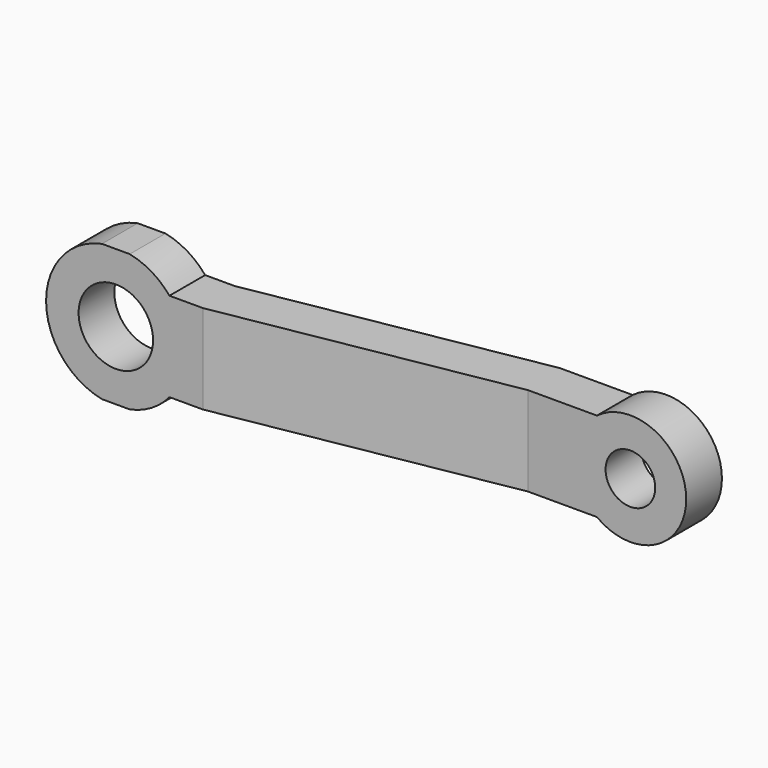
from build123d import *

# Parameters (mm, degrees)
F0_R     = 6.672459
F0_R_2   = 4.451297
F1_DEPTH = 25
F3_DEPTH = 12.25


with BuildPart() as f1:
    # F0 (on Front) → F1 (new body)
    with BuildSketch(Plane.XZ):
        with BuildLine():
            Line((53.057076, 8), (-16.338237, 8))
            ThreePointArc((-16.338237, 8), (-38.442924, 0), (-16.338237, -8))
            Line((-16.338237, -8), (53.057076, -8))
            ThreePointArc((53.057076, -8), (69.057076, 0), (53.057076, 8))
        make_face()
        with Locations((-25.942924, 0)):
            Circle(F0_R, mode=Mode.SUBTRACT)
        with Locations((59.057076, 0)):
            Circle(F0_R_2, mode=Mode.SUBTRACT)
    extrude(amount=F1_DEPTH)

    # F2 (on Top) → F3 (intersect, symmetric)
    with BuildSketch(Plane.XY):
        Polygon((-11.041536, -9), (-38.442924, -9), (-38.442924, -17), (-10.341627, -17), (40.699909, -8), (69.057076, -8), (69.057076, 0), (40, 0), align=None)
    extrude(amount=F3_DEPTH, both=True, mode=Mode.INTERSECT)


solid = f1.part
